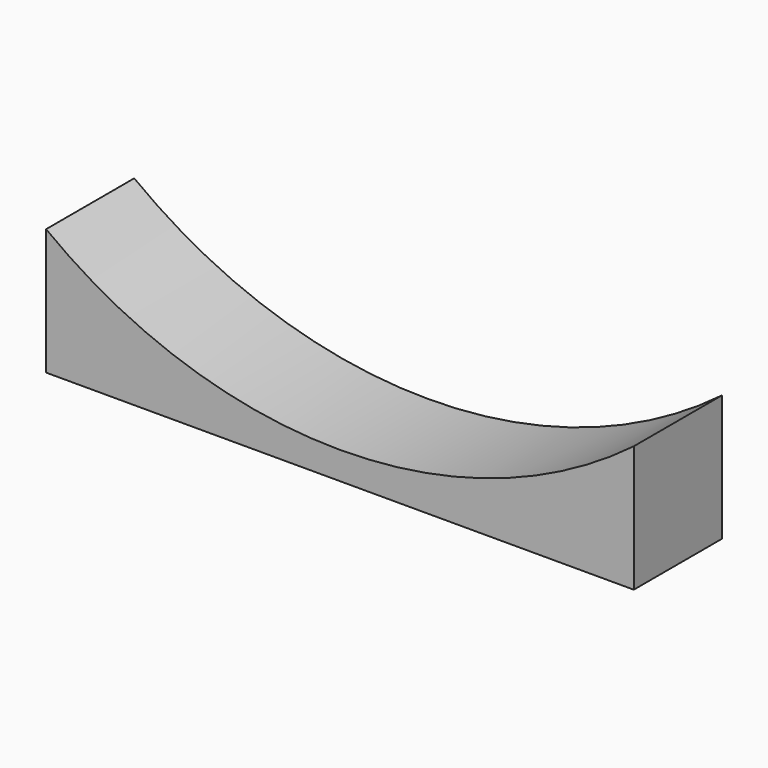
from build123d import *

# Parameters (mm, degrees)
F0_W     = 101.6
F0_H     = 25.4
F1_DEPTH = 19.05
F3_DEPTH = 19.051


with BuildPart() as f1:
    # F0 (on Front) → F1 (new body)
    with BuildSketch(Plane.XZ):
        with Locations((3.54419, 0)):
            Rectangle(F0_W, F0_H)
    extrude(amount=F1_DEPTH)

    # F2 (on face) → F3 (cut, through all)
    with BuildSketch(Plane.XZ.offset(19.05)):
        with BuildLine():
            ThreePointArc((54.34419, 9.129299), (78.887749, 38.750475), (87.68169, 76.2))
            ThreePointArc((87.68169, 76.2), (-33.905335, 151.543559), (-47.25581, 9.129299))
            Line((-47.25581, 9.129299), (-47.25581, 12.7))
            Line((-47.25581, 12.7), (54.34419, 12.7))
            Line((54.34419, 12.7), (54.34419, 9.129299))
        make_face()
        with BuildLine():
            Line((-47.25581, 12.7), (-47.25581, 9.129299))
            ThreePointArc((-47.25581, 9.129299), (3.54419, -7.9375), (54.34419, 9.129299))
            Line((54.34419, 9.129299), (54.34419, 12.7))
            Line((54.34419, 12.7), (-47.25581, 12.7))
        make_face()
    extrude(amount=-F3_DEPTH, mode=Mode.SUBTRACT)


solid = f1.part
